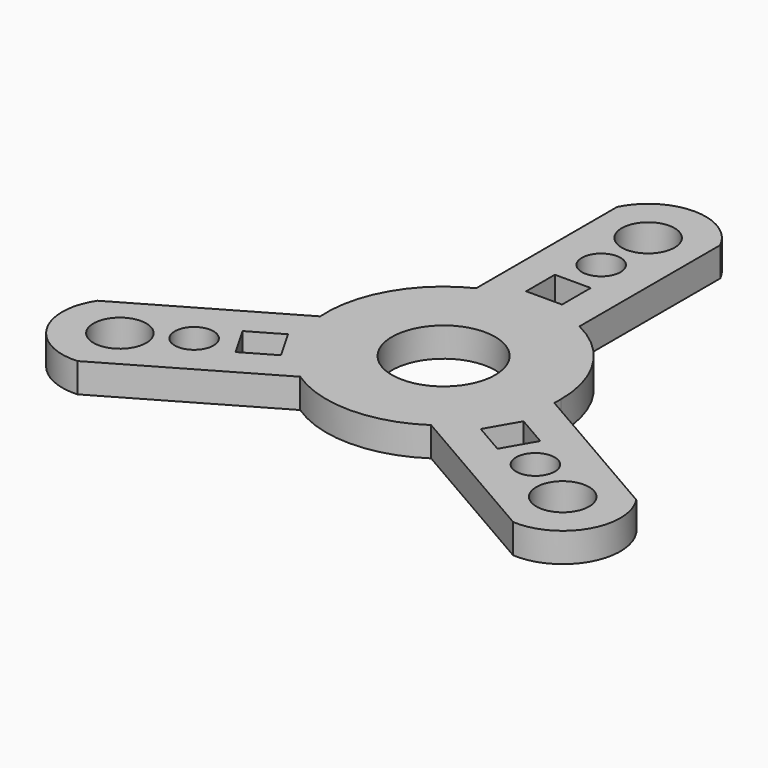
from build123d import *

# Parameters (mm, degrees)
F0_R     = 11.176
F0_W     = 7.770757
F0_H     = 7.770751
F0_R_2   = 4.191
F0_R_3   = 5.715
F1_DEPTH = 6.35


with BuildPart() as f1:
    # F0 (on Top) → F1 (new body)
    with BuildSketch(Plane.XY):
        with BuildLine():
            ThreePointArc((25.341298, -1.725872), (25.38532, -0.863435), (25.4, 0))
            ThreePointArc((25.4, 0), (21.552615, 13.440417), (11.176, 22.809143))
            ThreePointArc((11.176, 22.809143), (0, 25.4), (-11.176, 22.809143))
            ThreePointArc((-11.176, 22.809143), (-21.997045, 12.7), (-25.341298, -1.725872))
            ThreePointArc((-25.341298, -1.725872), (-21.997045, -12.7), (-14.165298, -21.083272))
            ThreePointArc((-14.165298, -21.083272), (0, -25.4), (14.165298, -21.083272))
            ThreePointArc((14.165298, -21.083272), (21.997045, -12.7), (25.341298, -1.725872))
        make_face()
        Circle(F0_R, mode=Mode.SUBTRACT)
        with BuildLine():
            ThreePointArc((-11.176, 22.809143), (0, 25.4), (11.176, 22.809143))
            Line((11.176, 22.809143), (11.176, 60.909143))
            ThreePointArc((11.176, 60.909143), (0, 67.835561), (-11.176, 60.909143))
            Line((-11.176, 60.909143), (-11.176, 22.809143))
        make_face()
        with Locations((1e-06, 31.083019)):
            Rectangle(F0_W, F0_H, mode=Mode.SUBTRACT)
        with Locations((0, 42.655933)):
            Circle(F0_R_2, mode=Mode.SUBTRACT)
        with Locations((0, 55.355933)):
            Circle(F0_R_3, mode=Mode.SUBTRACT)
        with BuildLine():
            Line((58.336866, -20.775872), (25.341298, -1.725872))
            ThreePointArc((25.341298, -1.725872), (21.997045, -12.7), (14.165298, -21.083272))
            Line((14.165298, -21.083272), (47.160866, -40.133272))
            ThreePointArc((47.160866, -40.133272), (58.747319, -33.917781), (58.336866, -20.775872))
        make_face()
        Polygon((25.49654, -10.233986), (32.226207, -14.119361), (28.340829, -20.849034), (21.611161, -16.963659), align=None, mode=Mode.SUBTRACT)
        with Locations((47.939644, -27.677966)):
            Circle(F0_R_3, mode=Mode.SUBTRACT)
        with Locations((36.941121, -21.327966)):
            Circle(F0_R_2, mode=Mode.SUBTRACT)
        with BuildLine():
            ThreePointArc((-14.165298, -21.083272), (-21.997045, -12.7), (-25.341298, -1.725872))
            Line((-25.341298, -1.725872), (-58.336866, -20.775872))
            ThreePointArc((-58.336866, -20.775872), (-58.747319, -33.917781), (-47.160866, -40.133272))
            Line((-47.160866, -40.133272), (-14.165298, -21.083272))
        make_face()
        with Locations((-47.939644, -27.677966)):
            Circle(F0_R_3, mode=Mode.SUBTRACT)
        with Locations((-36.941121, -21.327966)):
            Circle(F0_R_2, mode=Mode.SUBTRACT)
        Polygon((-21.611162, -16.963658), (-28.340829, -20.849033), (-32.226208, -14.119361), (-25.49654, -10.233985), align=None, mode=Mode.SUBTRACT)
    extrude(amount=F1_DEPTH)


solid = f1.part
